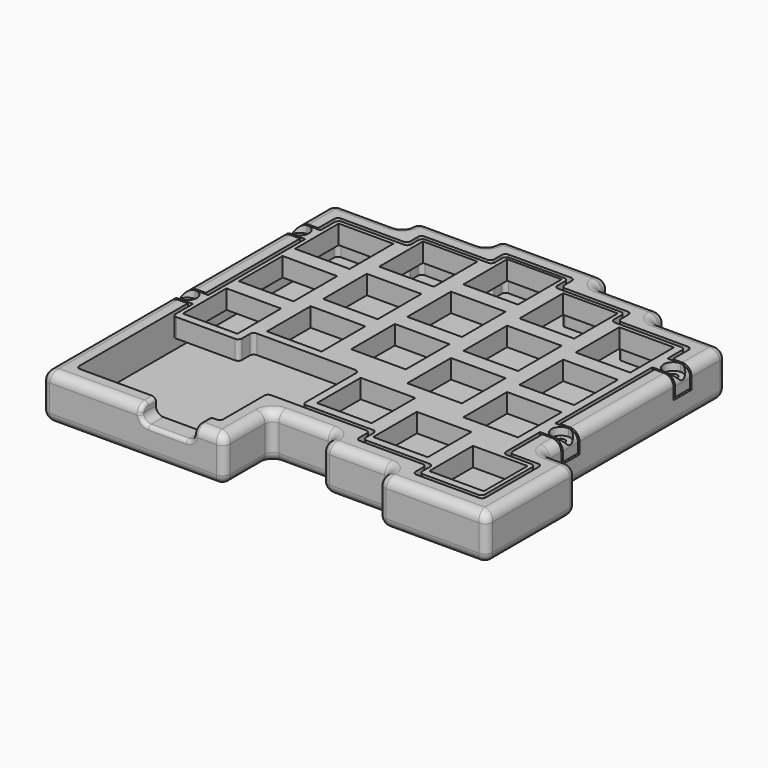
from build123d import *

# Parameters (mm, degrees)
PAD_DEPTH       = 12
POCKET_DEPTH    = 9
FILLET_R        = 1
FILLET001_R     = 2
FILLET002_R     = 2.5
SKETCH002_W     = 5
SKETCH002_H     = 6
POCKET001_DEPTH = 5.5
SKETCH003_R     = 1.55
POCKET002_DEPTH = 5
SKETCH004_R     = 3.5
POCKET003_DEPTH = 1
SKETCH008_W     = 14
SKETCH008_H     = 5
POCKET006_DEPTH = 4
FILLET005_R     = 2
FILLET006_R     = 1
SKETCH005_W     = 14.4
SKETCH005_H     = 14.4
PAD001_DEPTH    = 5
FILLET003_R     = 2.5
SKETCH006_R     = 1.1
POCKET004_DEPTH = 5
SKETCH007_R     = 2.5
POCKET005_DEPTH = 2
FILLET004_R     = 1


with BuildPart() as body:
    # Sketch → Pad (new body)
    with BuildSketch(Plane.XY):
        Polygon((0, 0), (0, 96), (18.5, 96), (18.5, 100.5), (37, 100.5), (37, 105), (65.5, 105), (65.5, 100.5), (84, 100.5), (84, 96), (103.5, 96), (103.5, 36), (112, 36), (112, 6.5), (83.5, 6.5), (83.5, 11), (65, 11), (65, 15.5), (48, 15.5), (48, 0), align=None)
    extrude(amount=PAD_DEPTH)

    # Sketch001 (on Face22 of Pad) → Pocket (cut)
    with BuildSketch(Plane.XY.offset(12)):
        Polygon((5, 5), (43, 5), (43, 20.5), (70, 20.5), (70, 16), (88.5, 16), (88.5, 11.5), (107, 11.5), (107, 31), (98.5, 31), (98.5, 91), (79, 91), (79, 95.5), (60.5, 95.5), (60.5, 100), (42, 100), (42, 95.5), (23.5, 95.5), (23.5, 91), (5, 91), align=None)
    extrude(amount=-POCKET_DEPTH, mode=Mode.SUBTRACT)

    # Fillet
    fillet_edges = [body.edges().sort_by_distance(p)[0] for p in [
        (43, 20.5, 7.5),
        (70, 20.5, 7.5),
        (88.5, 16, 7.5),
        (107, 11.5, 7.5),
        (98.5, 31, 7.5),
        (5, 5, 7.5),
        (70, 16, 7.5),
        (88.5, 11.5, 7.5),
        (107, 31, 7.5),
        (98.5, 91, 7.5),
        (79, 91, 7.5),
        (79, 95.5, 7.5),
        (60.5, 95.5, 7.5),
        (60.5, 100, 7.5),
        (42, 100, 7.5),
        (42, 95.5, 7.5),
        (23.5, 95.5, 7.5),
        (23.5, 91, 7.5),
        (5, 91, 7.5),
        (43, 5, 7.5),
    ]]
    fillet(fillet_edges, radius=FILLET_R)

    # Fillet001
    fillet001_edges = [body.edges().sort_by_distance(p)[0] for p in [
        (48, 15.5, 6),
        (65, 15.5, 6),
        (65, 11, 6),
        (83.5, 11, 6),
        (83.5, 6.5, 6),
        (48, 0, 6),
        (112, 6.5, 6),
        (0, 0, 6),
        (112, 36, 6),
        (103.5, 36, 6),
        (103.5, 96, 6),
        (84, 96, 6),
        (84, 100.5, 6),
        (65.5, 100.5, 6),
        (65.5, 105, 6),
        (37, 105, 6),
        (37, 100.5, 6),
        (18.5, 100.5, 6),
        (18.5, 96, 6),
        (0, 96, 6),
    ]]
    fillet(fillet001_edges, radius=FILLET001_R)

    # Fillet002
    fillet002_edges = [body.edges().sort_by_distance(p)[0] for p in [
        (97.75, 6.5, 12),
        (97.75, 6.5, 0),
    ]]
    fillet(fillet002_edges, radius=FILLET002_R)

    # Sketch002 (on Face1 of Fillet002) → Pocket001 (cut)
    with BuildSketch(Plane.XY.offset(12)):
        with Locations((101, 81.75)):
            Rectangle(SKETCH002_W, SKETCH002_H)
        with Locations((101, 44.75)):
            Rectangle(SKETCH002_W, SKETCH002_H)
        with Locations((2.5, 44.75)):
            Rectangle(SKETCH002_W, SKETCH002_H)
        with Locations((2.5, 81.75)):
            Rectangle(SKETCH002_W, SKETCH002_H)
    extrude(amount=-POCKET001_DEPTH, mode=Mode.SUBTRACT)

    # Sketch003 (on Face60 of Pocket001) → Pocket002 (cut)
    with BuildSketch(Plane.XY.offset(6.5)):
        with Locations((2.5, 44.75)):
            Circle(SKETCH003_R)
        with Locations((2.5, 81.75)):
            Circle(SKETCH003_R)
        with Locations((101, 81.75)):
            Circle(SKETCH003_R)
        with Locations((101, 44.75)):
            Circle(SKETCH003_R)
    extrude(amount=-POCKET002_DEPTH, mode=Mode.SUBTRACT)

    # Sketch004 (on Face134 of Pocket002) → Pocket003 (cut)
    with BuildSketch(Plane(origin=(0, 0, 0), x_dir=(1, 0, 0), z_dir=(0, 0, -1))):
        with Locations((6, -6)):
            Circle(SKETCH004_R)
        with Locations((6, -90)):
            Circle(SKETCH004_R)
        with Locations((106, -12.5)):
            Circle(SKETCH004_R)
        with Locations((97.5, -90)):
            Circle(SKETCH004_R)
    extrude(amount=-POCKET003_DEPTH, mode=Mode.SUBTRACT)

    # Sketch008 (on Face1 of Pocket003) → Pocket006 (cut)
    with BuildSketch(Plane.XY.offset(12)):
        with Locations((33, 2.5)):
            Rectangle(SKETCH008_W, SKETCH008_H)
    extrude(amount=-POCKET006_DEPTH, mode=Mode.SUBTRACT)

    # Fillet005
    fillet005_edges = [body.edges().sort_by_distance(p)[0] for p in [
        (40, 2.5, 8),
        (26, 2.5, 8),
    ]]
    fillet(fillet005_edges, radius=FILLET005_R)

    # Fillet006
    fillet006_edges = [body.edges().sort_by_distance(p)[0] for p in [
        (26, 3.75, 12),
    ]]
    fillet(fillet006_edges, radius=FILLET006_R)


with BuildPart() as plate:
    # Sketch005 → Pad001 (new body)
    with BuildSketch(Plane.XY):
        Polygon((0, 34.75), (0, 29.75), (6, 29.75), (6, 23), (23.5, 23), (23.5, 27.625), (42, 27.625), (51.5, 27.625), (51.5, 9), (71, 9), (71, 4.5), (89.5, 4.5), (89.5, 0), (106, 0), (106, 17.5), (97.5, 17.5), (97.5, 29.75), (103.5, 29.75), (103.5, 34.75), (97.5, 34.75), (97.5, 66.75), (103.5, 66.75), (103.5, 71.75), (97.5, 71.75), (97.5, 77.5), (78, 77.5), (78, 82), (59.5, 82), (59.5, 86.5), (43, 86.5), (43, 82), (24.5, 82), (24.5, 77.5), (6, 77.5), (6, 71.75), (0, 71.75), (0, 66.75), (6, 66.75), (6, 34.75), align=None)
        with Locations((14.25, 50.75)):
            Rectangle(SKETCH005_W, SKETCH005_H, mode=Mode.SUBTRACT)
        with Locations((14.25, 32.25)):
            Rectangle(SKETCH005_W, SKETCH005_H, mode=Mode.SUBTRACT)
        with Locations((14.25, 69.25)):
            Rectangle(SKETCH005_W, SKETCH005_H, mode=Mode.SUBTRACT)
        with Locations((32.75, 73.875)):
            Rectangle(SKETCH005_W, SKETCH005_H, mode=Mode.SUBTRACT)
        with Locations((32.75, 55.375)):
            Rectangle(SKETCH005_W, SKETCH005_H, mode=Mode.SUBTRACT)
        with Locations((32.75, 36.875)):
            Rectangle(SKETCH005_W, SKETCH005_H, mode=Mode.SUBTRACT)
        with Locations((51.25, 41.5)):
            Rectangle(SKETCH005_W, SKETCH005_H, mode=Mode.SUBTRACT)
        with Locations((51.25, 60)):
            Rectangle(SKETCH005_W, SKETCH005_H, mode=Mode.SUBTRACT)
        with Locations((51.25, 78.5)):
            Rectangle(SKETCH005_W, SKETCH005_H, mode=Mode.SUBTRACT)
        with Locations((69.75, 73.875)):
            Rectangle(SKETCH005_W, SKETCH005_H, mode=Mode.SUBTRACT)
        with Locations((88.25, 69.25)):
            Rectangle(SKETCH005_W, SKETCH005_H, mode=Mode.SUBTRACT)
        with Locations((69.75, 55.375)):
            Rectangle(SKETCH005_W, SKETCH005_H, mode=Mode.SUBTRACT)
        with Locations((69.75, 36.875)):
            Rectangle(SKETCH005_W, SKETCH005_H, mode=Mode.SUBTRACT)
        with Locations((88.25, 32.25)):
            Rectangle(SKETCH005_W, SKETCH005_H, mode=Mode.SUBTRACT)
        with Locations((88.25, 50.75)):
            Rectangle(SKETCH005_W, SKETCH005_H, mode=Mode.SUBTRACT)
        with Locations((97.75, 9.125)):
            Rectangle(SKETCH005_W, SKETCH005_H, mode=Mode.SUBTRACT)
        with Locations((79.25, 13.75)):
            Rectangle(SKETCH005_W, SKETCH005_H, mode=Mode.SUBTRACT)
        with Locations((60.75, 18.375)):
            Rectangle(SKETCH005_W, SKETCH005_H, mode=Mode.SUBTRACT)
    extrude(amount=PAD001_DEPTH)

    # Fillet003
    fillet003_edges = [plate.edges().sort_by_distance(p)[0] for p in [
        (0, 32.25, 5),
        (103.5, 32.25, 5),
        (103.5, 69.25, 5),
        (0, 69.25, 5),
    ]]
    fillet(fillet003_edges, radius=FILLET003_R)

    # Sketch006 (on Face6 of Fillet003) → Pocket004 (cut)
    with BuildSketch(Plane.XY.offset(5)):
        with Locations((2.5, 32.25)):
            Circle(SKETCH006_R)
        with Locations((2.5, 69.25)):
            Circle(SKETCH006_R)
        with Locations((101, 69.25)):
            Circle(SKETCH006_R)
        with Locations((101, 32.25)):
            Circle(SKETCH006_R)
    extrude(amount=-POCKET004_DEPTH, mode=Mode.SUBTRACT)

    # Sketch007 (on Face6 of Pocket004) → Pocket005 (cut)
    with BuildSketch(Plane.XY.offset(5)):
        with Locations((2.5, 32.25)):
            Circle(SKETCH007_R)
        with Locations((2.5, 69.25)):
            Circle(SKETCH007_R)
        with Locations((101, 69.25)):
            Circle(SKETCH007_R)
        with Locations((101, 32.25)):
            Circle(SKETCH007_R)
    extrude(amount=-POCKET005_DEPTH, mode=Mode.SUBTRACT)

    # Fillet004
    fillet004_edges = [plate.edges().sort_by_distance(p)[0] for p in [
        (6, 23, 2.5),
        (23.5, 23, 2.5),
        (23.5, 27.625, 2.5),
        (51.5, 27.625, 2.5),
        (51.5, 9, 2.5),
        (71, 9, 2.5),
        (71, 4.5, 2.5),
        (89.5, 4.5, 2.5),
        (89.5, 0, 2.5),
        (106, 0, 2.5),
        (97.5, 17.5, 2.5),
        (106, 17.5, 2.5),
        (97.5, 77.5, 2.5),
        (78, 77.5, 2.5),
        (78, 82, 2.5),
        (59.5, 82, 2.5),
        (59.5, 86.5, 2.5),
        (43, 86.5, 2.5),
        (24.5, 82, 2.5),
        (6, 77.5, 2.5),
        (24.5, 77.5, 2.5),
        (43, 82, 2.5),
    ]]
    fillet(fillet004_edges, radius=FILLET004_R)


with BuildPart() as plate_1:
    # Body001 placement: moved
    add(plate.part.moved(Location((0, 12.5, 7))))


solid = Compound([body.part, plate_1.part])
